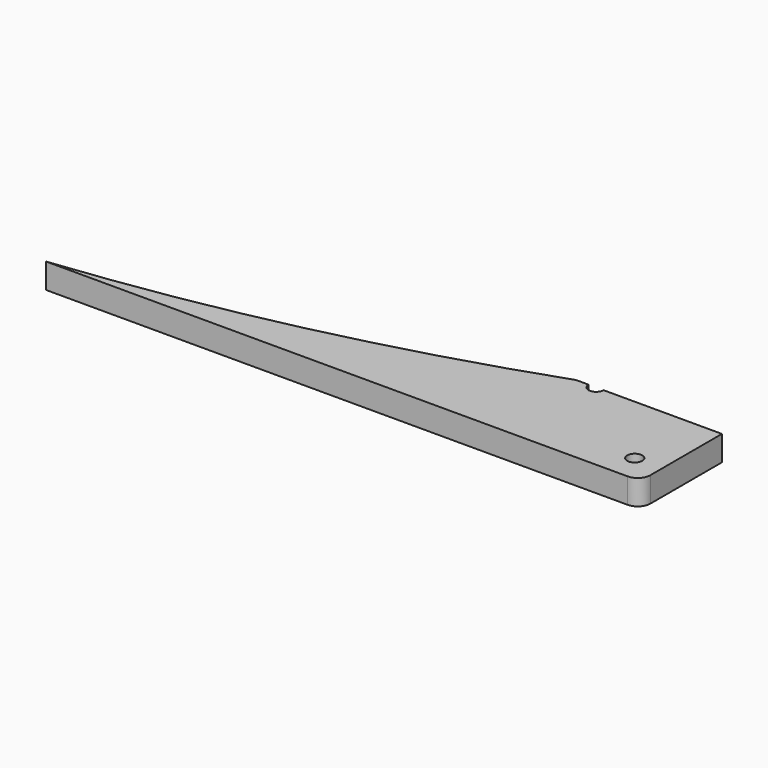
from build123d import *

# Parameters (mm, degrees)
F0_R     = 0.75
F1_DEPTH = 2.5


with BuildPart() as f1:
    # F0 (on Top) → F1 (new body)
    with BuildSketch(Plane.XY):
        with BuildLine():
            ThreePointArc((44.725031, 10.182661), (22.65802, 3.793393), (0, 0))
            Line((0, 0), (58.023897, 0))
            ThreePointArc((58.023897, 0), (58.90778, 0.366117), (59.273897, 1.25))
            Line((59.273897, 1.25), (59.273897, 10.182661))
            Line((59.273897, 10.182661), (53.773897, 10.182661))
            Line((53.773897, 10.182661), (47.475031, 10.182661))
            ThreePointArc((47.475031, 10.182661), (46.725031, 9.432661), (45.975031, 10.182661))
            Line((45.975031, 10.182661), (44.725031, 10.182661))
        make_face()
        with Locations((56.523897, 2.75)):
            Circle(F0_R, mode=Mode.SUBTRACT)
    extrude(amount=F1_DEPTH)


solid = f1.part
